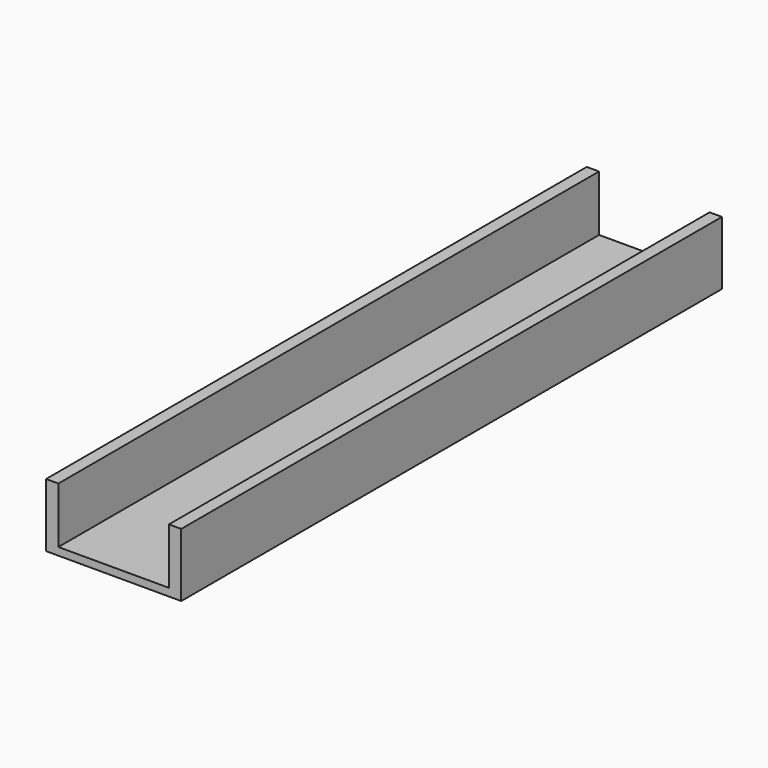
from build123d import *

# Parameters (mm, degrees)
F0_W     = 76.2
F0_H     = 381
F1_DEPTH = 35.814
F2_W     = 62.3316
F2_H     = 31.496
F3_DEPTH = 381.001


with BuildPart() as f1:
    # F0 (on Top) → F1 (new body)
    with BuildSketch(Plane.XY):
        with Locations((4.520496, 83.875401)):
            Rectangle(F0_W, F0_H)
    extrude(amount=F1_DEPTH)

    # F2 (on face) → F3 (cut, through all)
    with BuildSketch(Plane.XZ.offset(106.624599)):
        with Locations((4.520496, 20.066)):
            Rectangle(F2_W, F2_H)
    extrude(amount=-F3_DEPTH, mode=Mode.SUBTRACT)


solid = f1.part
